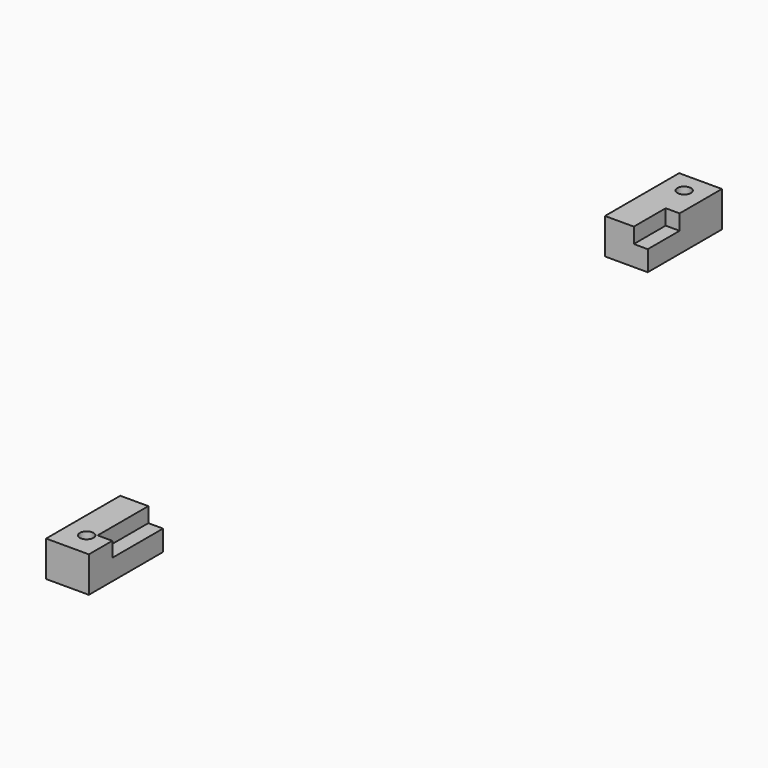
from build123d import *

# Parameters (mm, degrees)
F0_W     = 12
F0_H     = 26
F0_R     = 1.906204
F1_DEPTH = 10
F2_W     = 3.91077
F2_H     = 11.169065
F3_DEPTH = 4.3
F5_DEPTH = 4.2


with BuildPart() as f1:
    # F0 (on Top) → F1 (new body)
    with BuildSketch(Plane.XY):
        with Locations((-150.182421, 155.81121)):
            Rectangle(F0_W, F0_H)
        with Locations((-150.182421, 163.068016)):
            Circle(F0_R, mode=Mode.SUBTRACT)
        with Locations((-150.182421, -40.119177)):
            Rectangle(F0_W, F0_H)
        with Locations((-150.182421, -46.376177)):
            Circle(F0_R, mode=Mode.SUBTRACT)
    extrude(amount=F1_DEPTH)

    # F2 (on face) → F3 (cut)
    with BuildSketch(Plane.XY.offset(10)):
        Polygon((-143.182421, 153.980275), (-144.182421, 153.980275), (-144.182421, 142.81121), (-148.093191, 142.81121), (-148.093191, 141.81121), (-143.182421, 141.81121), align=None)
        with Locations((-146.137806, 148.395742)):
            Rectangle(F2_W, F2_H)
    extrude(amount=-F3_DEPTH, mode=Mode.SUBTRACT)

    # F4 (on face) → F5 (cut)
    with BuildSketch(Plane.XY.offset(10)):
        Polygon((-142.428743, -25.942417), (-147.725043, -25.942417), (-148.303077, -25.942417), (-148.303077, -44.902083), (-147.725043, -44.902083), (-142.428743, -44.902083), (-142.428743, -43.325493), align=None)
    extrude(amount=-F5_DEPTH, mode=Mode.SUBTRACT)


solid = f1.part
